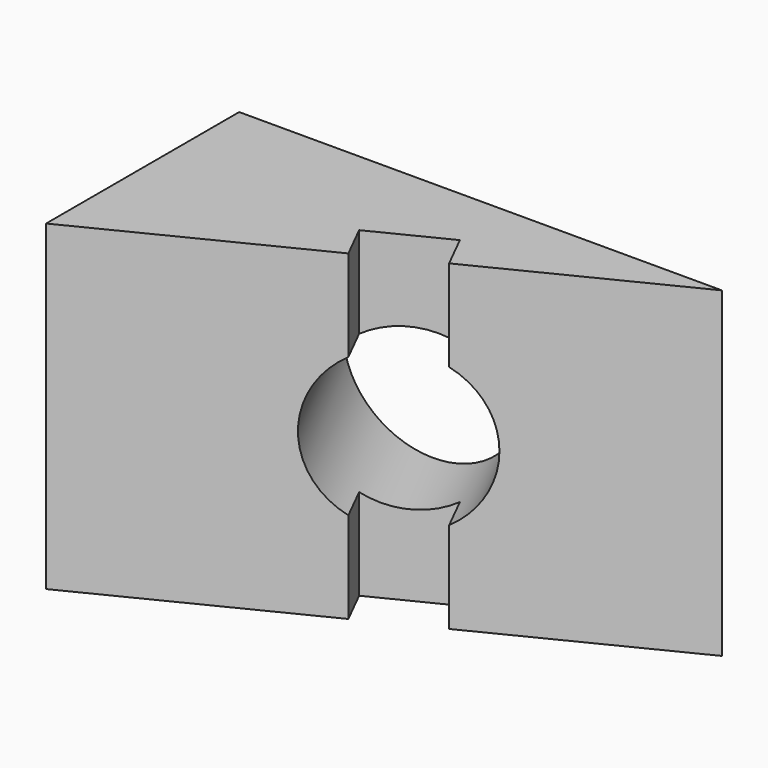
from build123d import *

# Parameters (mm, degrees)
F1_DEPTH = 101.6
F2_W     = 25.4
F2_H     = 101.6
F4_DEPTH = 12.7
F3_R     = 25.4
F5_DEPTH = 110.49


with BuildPart() as f1:
    # F0 (on Top) → F1 (new body)
    with BuildSketch(Plane.XY):
        Polygon((106.0533570021, -2.5183995773), (-46.3466429979, -2.5183995773), (-46.3466429979, -78.7183995773), align=None)
    extrude(amount=F1_DEPTH)

    # F2 (on face) → F4 (cut)
    with BuildSketch(Plane(origin=(22.2180312314, -44.4360624627, 0), x_dir=(0.894427191, 0.4472135955, 0), z_dir=(0.4472135955, -0.894427191, 0))):
        with Locations((12.2423637842, 50.8)):
            Rectangle(F2_W, F2_H)
    extrude(amount=-F4_DEPTH, mode=Mode.SUBTRACT)

    # F3 (on face) → F5 (cut)
    with BuildSketch(Plane(origin=(22.2180312314, -44.4360624627, 0), x_dir=(0.894427191, 0.4472135955, 0), z_dir=(0.4472135955, -0.894427191, 0))):
        with Locations((12.2423637842, 50.8)):
            Circle(F3_R)
    extrude(amount=-F5_DEPTH, mode=Mode.SUBTRACT)


solid = f1.part
